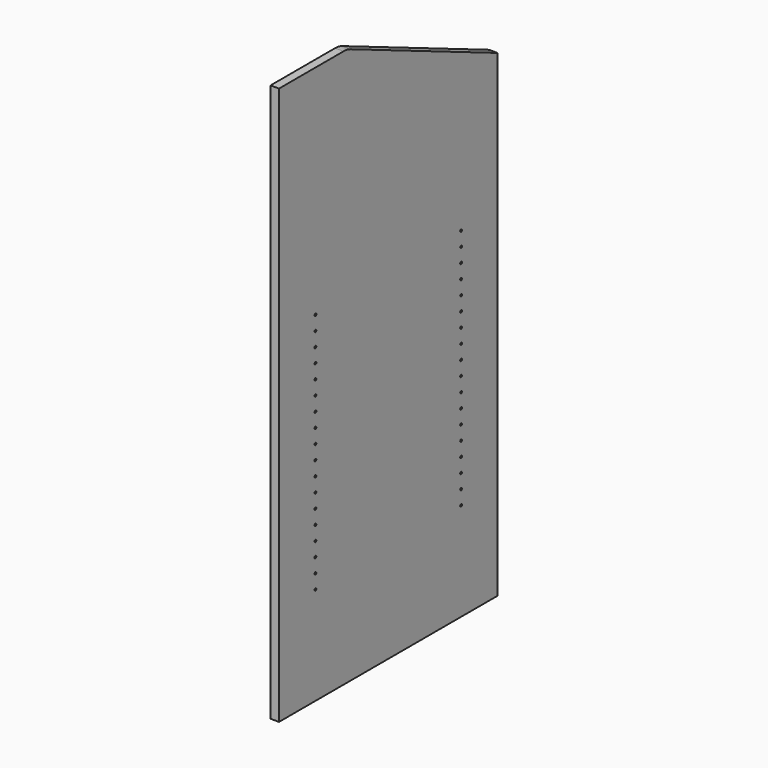
from build123d import *

# Parameters (mm, degrees)
F1_DEPTH = 19.05
F3_D     = 5.0038
F3_DEPTH = 14.224
F3_TIP   = 1.5032931827


with BuildPart() as f1:
    # F0 (on Right) → F1 (new body)
    with BuildSketch(Plane.YZ):
        with BuildLine():
            Line((304.8, -622.3), (304.8, 622.3))
            Line((304.8, 622.3), (124.6301678728, 622.3))
            ThreePointArc((124.6301678728, 622.3), (114.5071784324, 621.2811719909), (104.7902356525, 618.2655545193))
            Line((104.7902356525, 618.2655545193), (-304.8, 444.5))
            Line((-304.8, 444.5), (-304.8, 396.875))
            Line((-304.8, 396.875), (-304.8, -622.3))
            Line((-304.8, -622.3), (304.8, -622.3))
        make_face()
    extrude(amount=F1_DEPTH)

    # F3
    with Locations(Plane.YZ.offset(19.05)):
        with Locations((-203.2, 136.525), (-203.2, 104.775), (-203.2, 73.025), (-203.2, 41.275), (-203.2, 9.525), (-203.2, -22.225), (-203.2, -53.975), (-203.2, -85.725), (-203.2, -117.475), (-203.2, -149.225), (-203.2, -180.975), (-203.2, -212.725), (-203.2, -244.475), (-203.2, -276.225), (-203.2, -307.975), (-203.2, -339.725), (-203.2, -371.475), (-203.2, -403.225), (203.2, -403.225), (203.2, -371.475), (203.2, -339.725), (203.2, -307.975), (203.2, -276.225), (203.2, -244.475), (203.2, -212.725), (203.2, -180.975), (203.2, -149.225), (203.2, -117.475), (203.2, -85.725), (203.2, -53.975), (203.2, -22.225), (203.2, 9.525), (203.2, 41.275), (203.2, 73.025), (203.2, 104.775), (203.2, 136.525)):
            Hole(F3_D / 2, depth=F3_DEPTH)
            with Locations((0, 0, -(F3_DEPTH + F3_TIP / 2))):  # 118° drill point
                Cone(0, F3_D / 2, F3_TIP, mode=Mode.SUBTRACT)


with BuildPart() as f4_1:
    # F4: instance of F1
    add(f1.part.mirror(Plane(origin=(9.525, 304.8, 0), x_dir=(-1, 0, 0), z_dir=(0, 1, 0))))


solid = f4_1.part
